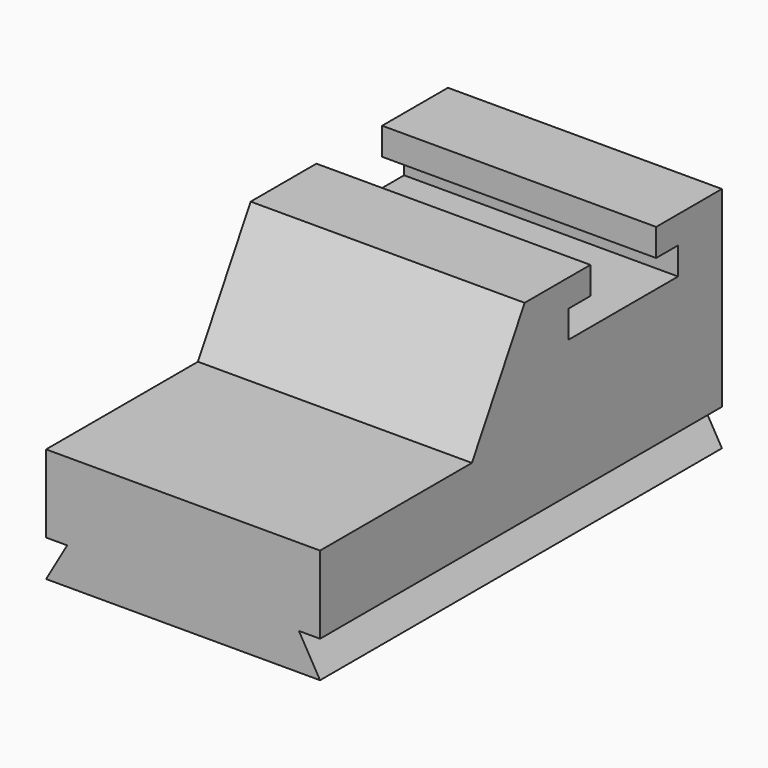
from build123d import *

# Parameters (mm, degrees)
F1_DEPTH = 1524
F3_DEPTH = 2794.001
F4_DEPTH = 2794.001


with BuildPart() as f1:
    # F0 (on Right) → F1 (new body)
    with BuildSketch(Plane.YZ):
        Polygon((0, 214.141828), (0, 0), (2794, 0), (2794, 203.2), (2794, 1270), (2336.8, 1270), (2336.8, 1117.6), (2489.2, 1117.6), (2489.2, 965.2), (1727.2, 965.2), (1727.2, 1117.6), (1879.6, 1117.6), (1879.6, 1270), (1422.4, 1270), (1055.782579, 635), (0, 635), align=None)
    extrude(amount=F1_DEPTH)

    # F2 (on face) → F3 (cut, through all)
    with BuildSketch(Plane.XZ):
        Polygon((1406.682425, 203.2), (1524, 0), (1524, 203.2), align=None)
    extrude(amount=-F3_DEPTH, mode=Mode.SUBTRACT)

    # F2 (on face) → F4 (cut, through all)
    with BuildSketch(Plane.XZ):
        Polygon((1406.682425, 203.2), (1524, 0), (1524, 203.2), align=None)
        Polygon((0, 0), (117.317575, 203.2), (0, 203.2), align=None)
    extrude(amount=-F4_DEPTH, mode=Mode.SUBTRACT)


solid = f1.part
